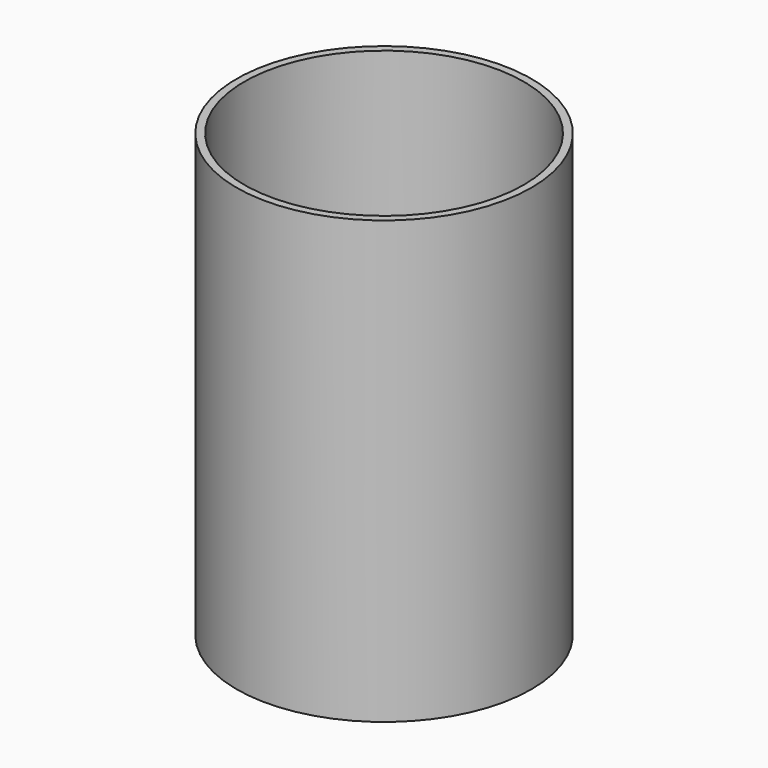
from build123d import *

# Parameters (mm, degrees)
F0_R     = 48.768
F0_R_2   = 46.228
F1_DEPTH = 146.05
F2_R     = 2.54
F3_DEPTH = 48.769


with BuildPart() as f1:
    # F0 (on Top) → F1 (new body)
    with BuildSketch(Plane.XY):
        Circle(F0_R)
        Circle(F0_R_2, mode=Mode.SUBTRACT)
    extrude(amount=F1_DEPTH)

    # F2 (on Front) → F3 (cut, through all)
    with BuildSketch(Plane.XZ):
        with Locations((0, 8.255)):
            Circle(F2_R)
    extrude(amount=-F3_DEPTH, mode=Mode.SUBTRACT)


solid = f1.part
